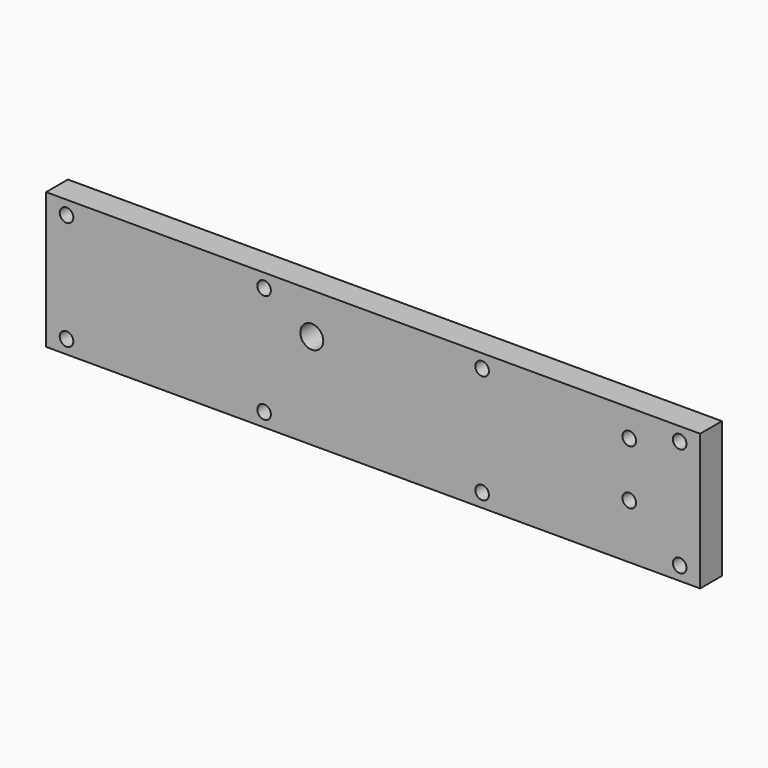
from build123d import *

# Parameters (mm, degrees)
F0_W     = 304.8
F0_H     = 63.5
F0_R     = 3.175
F0_R_2   = 5.35813
F1_DEPTH = 12.7


with BuildPart() as f1:
    # F0 (on Front) → F1 (new body)
    with BuildSketch(Plane.XZ):
        with Locations((-2.769567, 11.548205)):
            Rectangle(F0_W, F0_H)
        with Locations((-145.644567, -13.851795)):
            Circle(F0_R, mode=Mode.SUBTRACT)
        with Locations((-53.569567, -13.851795)):
            Circle(F0_R, mode=Mode.SUBTRACT)
        with Locations((48.030433, -13.851795)):
            Circle(F0_R, mode=Mode.SUBTRACT)
        with Locations((140.105433, -13.851795)):
            Circle(F0_R, mode=Mode.SUBTRACT)
        with Locations((116.610433, 5.198205)):
            Circle(F0_R, mode=Mode.SUBTRACT)
        with Locations((-31.344567, 24.248205)):
            Circle(F0_R_2, mode=Mode.SUBTRACT)
        with Locations((-145.644567, 36.948205)):
            Circle(F0_R, mode=Mode.SUBTRACT)
        with Locations((-53.569567, 36.948205)):
            Circle(F0_R, mode=Mode.SUBTRACT)
        with Locations((48.030433, 36.948205)):
            Circle(F0_R, mode=Mode.SUBTRACT)
        with Locations((116.610433, 30.598205)):
            Circle(F0_R, mode=Mode.SUBTRACT)
        with Locations((140.105433, 36.948205)):
            Circle(F0_R, mode=Mode.SUBTRACT)
    extrude(amount=F1_DEPTH)


solid = f1.part
